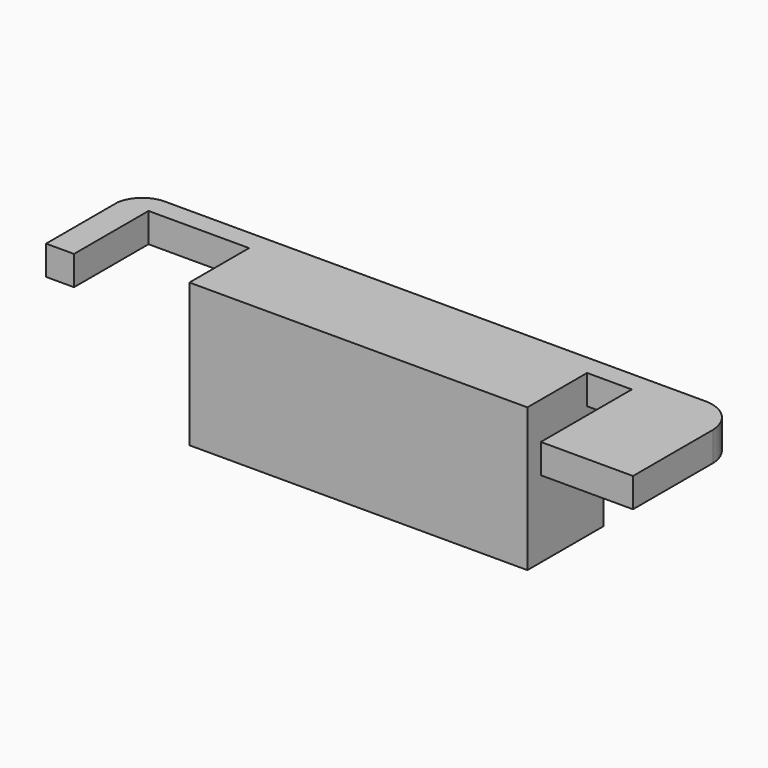
from build123d import *

# Parameters (mm, degrees)
F0_W     = 60.5
F0_H     = 6.85
F1_DEPTH = 5.25
F2_DEPTH = 20.4
F3_W     = 60.5
F3_H     = 20.4
F4_DEPTH = 3
F5_DEPTH = 7
F6_DEPTH = 14
F7_DEPTH = 7.1
F8_DEPTH = 5.25
F9_DEPTH = 0.25


with BuildPart() as f1:
    # F0 (on Top) → F1 (new body)
    with BuildSketch(Plane.XY):
        with BuildLine():
            Line((71.054384552, 12), (70.0535051376, 12))
            Line((70.0535051376, 12), (60.4137502015, 12))
            Line((60.4137502015, 12), (60.4137502015, 8.35))
            Line((60.4137502015, 8.35), (60.4137502015, -12))
            Line((60.4137502015, -12), (76.9137502015, -12))
            Line((76.9137502015, -12), (76.9137502015, 5.3627402522))
            Line((76.9137502015, 5.3627402522), (76.9137502015, 5.9437831573))
            ThreePointArc((76.9137502015, 5.9437831573), (75.1294427626, 10.0800376979), (71.054384552, 12))
        make_face()
        with BuildLine():
            Line((-26.0862497985, -8.32), (-26.0862497985, 8.35))
            Line((-26.0862497985, 8.35), (-26.0862497985, 12))
            ThreePointArc((-26.0862497985, 12), (-29.3762488381, 10.7847383112), (-31.0862497985, 7.7225738205))
            Line((-31.0862497985, 7.7225738205), (-31.0862497985, -8.32))
            Line((-31.0862497985, -8.32), (-26.0862497985, -8.32))
        make_face()
        Polygon((60.4137502015, 8.35), (60.4137502015, 12), (52.4137502015, 12), (-8.0862497985, 12), (-26.0862497985, 12), (-26.0862497985, 8.35), align=None)
        with Locations((22.1637502015, 15.425)):
            Rectangle(F0_W, F0_H)
    extrude(amount=F1_DEPTH)

    # F0 (on Top) → F2 (join)
    with BuildSketch(Plane.XY):
        with Locations((22.1637502015, 15.425)):
            Rectangle(F0_W, F0_H)
    extrude(amount=-F2_DEPTH)

    # F3 (on face) → F4 (join)
    with BuildSketch(Plane.XZ.offset(-12)):
        with Locations((22.1637502015, -10.2)):
            Rectangle(F3_W, F3_H)
    extrude(amount=F4_DEPTH)

    # F5 (add): a face of the model
    f5_faces = [f1.faces().sort_by_distance(p)[0] for p in [
        (22.1637502015, 18.85, -7.575),
    ]]
    extrude(f5_faces, amount=-F5_DEPTH)

    # F6 (add): a face of the model
    f6_faces = [f1.faces().sort_by_distance(p)[0] for p in [
        (22.1637502015, 9, -10.2),
    ]]
    extrude(f6_faces, amount=F6_DEPTH)

    # F7 (cut): a face of the model
    f7_faces = [f1.faces().sort_by_distance(p)[0] for p in [
        (22.1637502015, 18.85, -7.575),
    ]]
    extrude(f7_faces, amount=-F7_DEPTH, mode=Mode.SUBTRACT)

    # F8 (add): a face of the model
    f8_faces = [f1.faces().sort_by_distance(p)[0] for p in [
        (22.1637502015, 1.675, 0),
    ]]
    extrude(f8_faces, amount=F8_DEPTH)

    # F9 (add): a face of the model
    f9_faces = [f1.faces().sort_by_distance(p)[0] for p in [
        (22.1637502015, 11.75, -7.575),
    ]]
    extrude(f9_faces, amount=F9_DEPTH)


solid = f1.part
